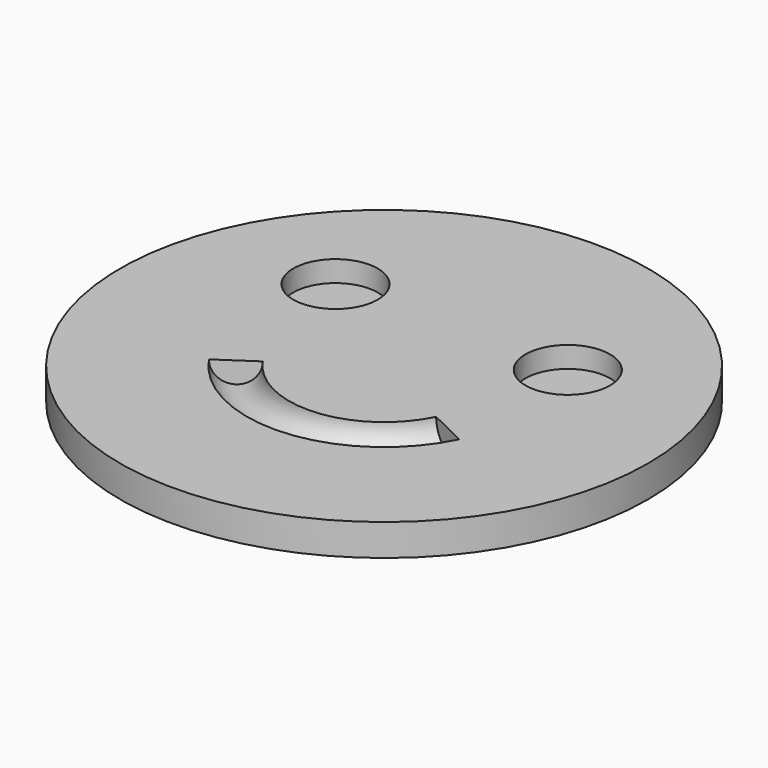
from build123d import *

# Parameters (mm, degrees)
CYLINDER001_R         = 4
CYLINDER001_DEPTH     = 2
CYLINDER002_R         = 4
CYLINDER002_DEPTH     = 2
TORUS_R               = 2
TORUS_ANGLE           = 120
TORUS_PLACEMENT_ANGLE = 146
CYLINDER_R            = 25
CYLINDER_DEPTH        = 3


with BuildPart() as ull1:
    # Cylinder001 → Cylinder001 (new body)
    with BuildSketch(Plane(origin=(11, 8, 1), x_dir=(1, 0, 0), z_dir=(0, 0, 1))):
        Circle(CYLINDER001_R)
    extrude(amount=CYLINDER001_DEPTH)


with BuildPart() as ull2:
    # Cylinder002 → Cylinder002 (new body)
    with BuildSketch(Plane(origin=(-11, 8, 1), x_dir=(1, 0, 0), z_dir=(0, 0, 1))):
        Circle(CYLINDER002_R)
    extrude(amount=CYLINDER002_DEPTH)


with BuildPart() as boca:
    # Torus → Torus (revolve)
    with BuildSketch(Plane.XZ):
        with Locations((11, 0)):
            Circle(TORUS_R)
    revolve(axis=Axis((0, 0, 0), (0, 0, 1)), revolution_arc=TORUS_ANGLE)


with BuildPart() as boca_1:
    # Torus placement: moved
    add(boca.part.moved(Location((0, 0, 3))).rotate(Axis((0, 0, 3), (0, 0, -1)), TORUS_PLACEMENT_ANGLE))


with BuildPart() as cut002:
    # Cylinder → Cylinder (new body)
    with BuildSketch(Plane.XY):
        Circle(CYLINDER_R)
    extrude(amount=CYLINDER_DEPTH)

    # Cut: cut boca
    add(boca_1.part, mode=Mode.SUBTRACT)

    # Cut001: cut ull2
    add(ull2.part, mode=Mode.SUBTRACT)

    # Cut002: cut ull1
    add(ull1.part, mode=Mode.SUBTRACT)


solid = cut002.part
